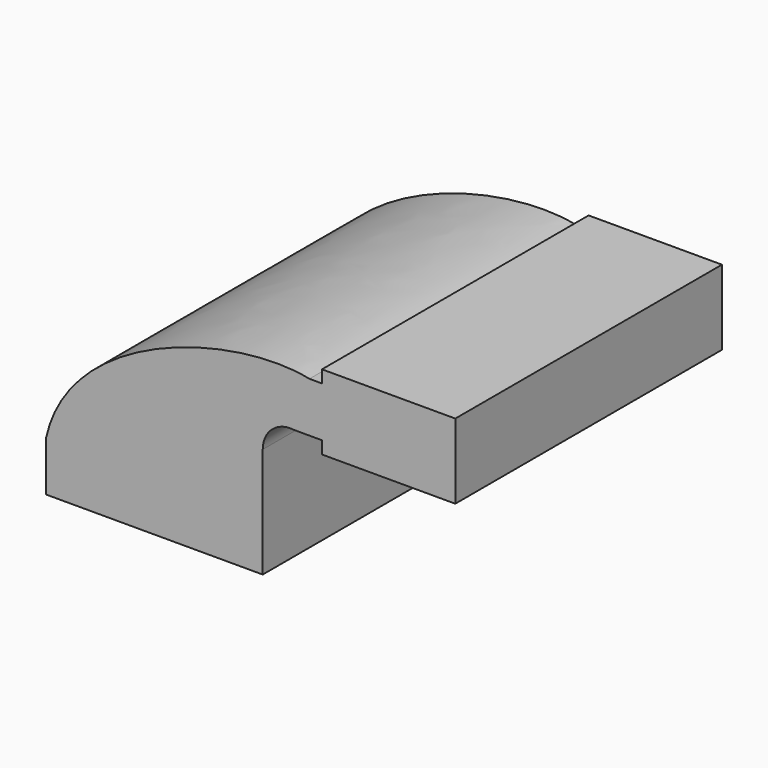
from build123d import *

# Parameters (mm, degrees)
F0_W     = 28.642054
F0_H     = 28.575
F1_DEPTH = 127


with BuildPart() as f1:
    # F0 (on Front) → F1 (new body)
    with BuildSketch(Plane.XZ):
        Polygon((63.855036, 66.675), (63.855036, 61.9252), (63.855036, 42.8752), (63.855036, 38.1), (86.012982, 38.1), (86.012982, 66.675), align=None)
        with BuildLine():
            add(Edge.make_bspline(
                [(-41.275, 9.525), (-32.223377, 50.582275), (30.925399, 68.002619), (59.0721, 61.9252)],
                knots=[0, 0, 0, 0, 113.204777, 113.204777, 113.204777, 113.204777], degree=3))
            Line((-41.275, 9.525), (22.225, 9.525))
            Line((22.225, 9.525), (22.225, 27.579919))
            ThreePointArc((22.225, 27.579919), (33.179421, 52.765764), (59.0721, 61.9252))
        make_face()
        with BuildLine():
            Line((22.225, 27.579919), (22.225, 9.525))
            Line((22.225, 9.525), (41.275, 9.525))
            Line((41.275, 9.525), (41.275, 32.44565))
            ThreePointArc((41.275, 32.44565), (44.88648, 40.38315), (53.243296, 42.8752))
            Line((53.243296, 42.8752), (63.855036, 42.8752))
            Line((63.855036, 42.8752), (63.855036, 61.9252))
            Line((63.855036, 61.9252), (59.0721, 61.9252))
            ThreePointArc((59.0721, 61.9252), (33.179421, 52.765764), (22.225, 27.579919))
        make_face()
        with Locations((100.334009, 52.3875)):
            Rectangle(F0_W, F0_H)
        Polygon((22.225, 9.525), (-41.275, 9.525), (-41.275, -9.525), (41.275, -9.525), (41.275, 9.525), align=None)
    extrude(amount=F1_DEPTH)


solid = f1.part
